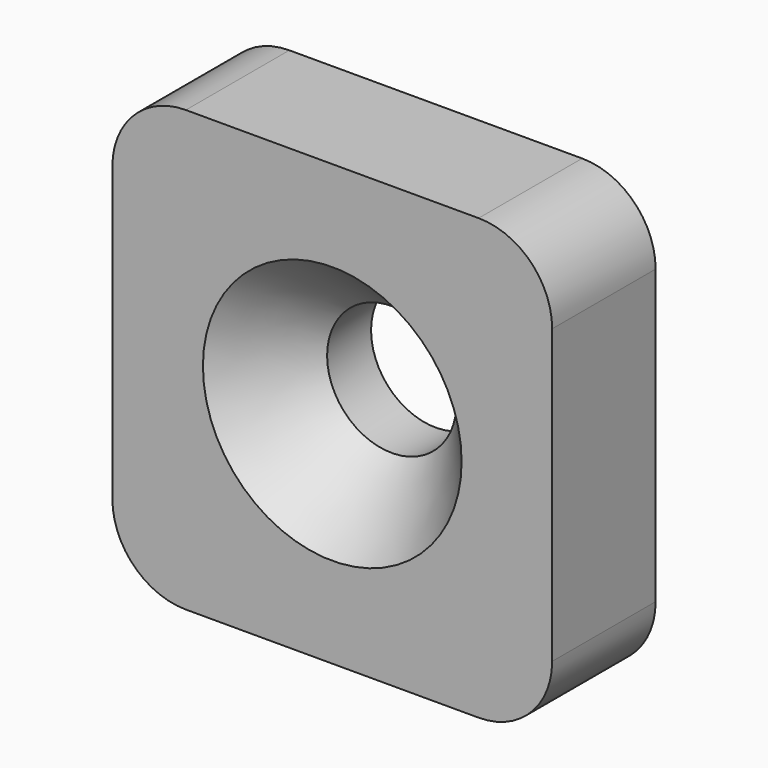
from build123d import *

# Parameters (mm, degrees)
F0_W           = 18.9992
F0_H           = 18.9992
F1_DEPTH       = 5.588
F2_R           = 3.175
F4_D           = 5.588
F4_CSINK_D     = 11.176
F4_CSINK_ANGLE = 82


with BuildPart() as f1:
    # F0 (on Front) → F1 (new body)
    with BuildSketch(Plane.XZ):
        with Locations((9.4996, 9.4996)):
            Rectangle(F0_W, F0_H)
    extrude(amount=F1_DEPTH)

    # F2
    f2_edges = [f1.edges().sort_by_distance(p)[0] for p in [
        (0, -2.794, 18.9992),
        (18.9992, -2.794, 18.9992),
        (18.9992, -2.794, 0),
        (0, -2.794, 0),
    ]]
    fillet(f2_edges, radius=F2_R)

    # F4 (through all)
    with Locations(Plane.XZ.offset(5.588)):
        with Locations((9.4996, 9.4996)):
            CounterSinkHole(F4_D / 2, F4_CSINK_D / 2, counter_sink_angle=F4_CSINK_ANGLE)


solid = f1.part
